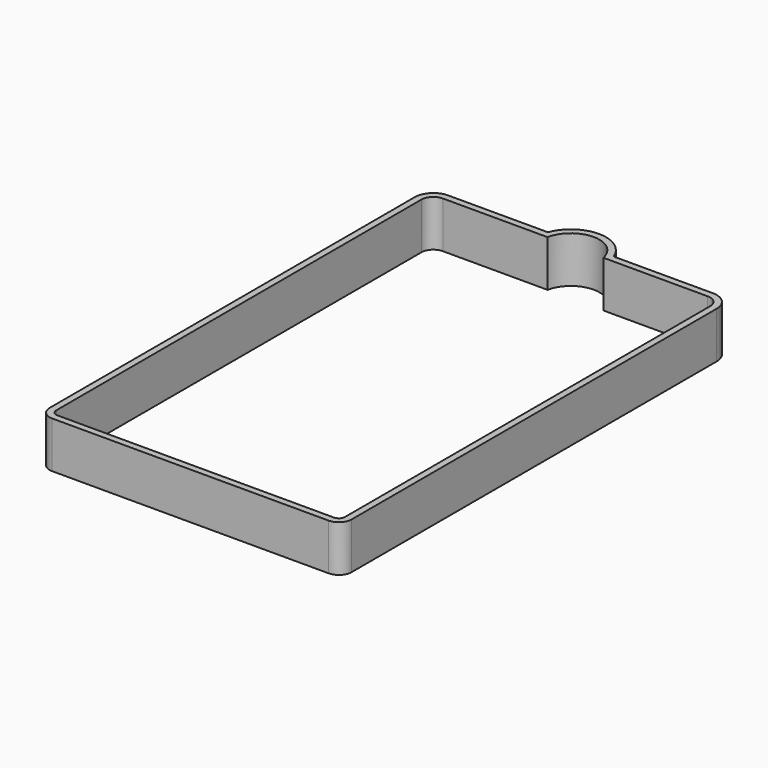
from build123d import *

# Parameters (mm, degrees)
F1_DEPTH = 17.5
F2_T     = -2.5


with BuildPart() as f1:
    # F0 (on Top) → F1 (new body)
    with BuildSketch(Plane.XY):
        with BuildLine():
            Line((50.0531097949, 87.5149464011), (12.6002141586, 87.5149464011))
            ThreePointArc((12.6002141586, 87.5149464011), (0.2029747702, 96.1006367998), (-12.1942646181, 87.5149464011))
            Line((-12.1942646181, 87.5149464011), (-49.7552318573, 87.5149464011))
            ThreePointArc((-49.7552318573, 87.5149464011), (-54.7049793256, 85.4646938694), (-56.7552318573, 80.5149464011))
            Line((-56.7552318573, 80.5149464011), (-56.7552318573, -91.4975939512))
            ThreePointArc((-56.7552318573, -91.4975939512), (-55.349344407, -94.8917065009), (-51.9552318573, -96.2975939512))
            Line((-51.9552318573, -96.2975939512), (52.2531097949, -96.2975939512))
            ThreePointArc((52.2531097949, -96.2975939512), (55.6472223446, -94.8917065009), (57.0531097949, -91.4975939512))
            Line((57.0531097949, -91.4975939512), (57.0531097949, 80.5149464011))
            ThreePointArc((57.0531097949, 80.5149464011), (55.0028572632, 85.4646938694), (50.0531097949, 87.5149464011))
        make_face()
    extrude(amount=F1_DEPTH)

    # F2
    f2_openings = [f1.faces().sort_by_distance(p)[0] for p in [
        (0.149336, -3.73706, 17.5),
        (0.149336, -3.73706, 0),
    ]]
    offset(amount=F2_T, openings=f2_openings, kind=Kind.INTERSECTION)


solid = f1.part
